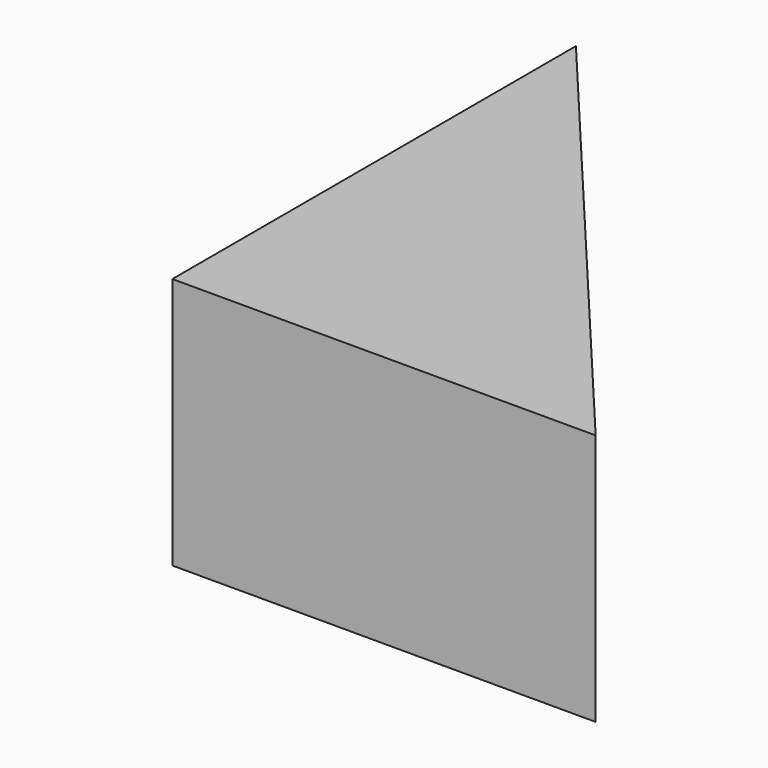
from build123d import *

# Parameters (mm, degrees)
F1_DEPTH = 15
F3_D     = 6


with BuildPart() as f1:
    # F0 (on Top) → F1 (new body)
    with BuildSketch(Plane.XY):
        Polygon((25.1729889353, 15.2647063509), (0, 45.2647063509), (0, 15.2647063509), align=None)
    extrude(amount=F1_DEPTH)

    # F3 (through all)
    with Locations(Plane(origin=(0, 0, 0), x_dir=(0, 1, 0), z_dir=(-1, 0, 0))):
        with Locations((30.2647063509, -7.5615341775)):
            Hole(F3_D / 2)


solid = f1.part
